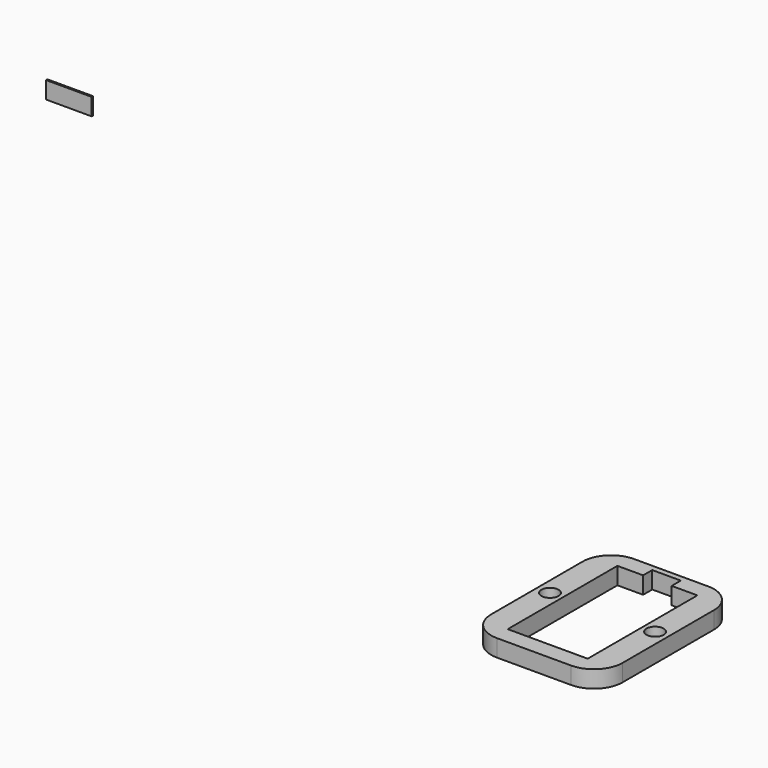
from build123d import *

# Parameters (mm, degrees)
F0_W     = 7.99343
F0_H     = 0.296056
F0_R     = 1.5
F1_DEPTH = 3


with BuildPart() as f1:
    # F0 (on Top) → F1 (new body)
    with BuildSketch(Plane.XY):
        with Locations((-153.799355, 75.641453)):
            Rectangle(F0_W, F0_H)
        with BuildLine():
            ThreePointArc((-7.7, 0), (-9.2, 1.5), (-10.7, 0))
            ThreePointArc((-10.7, 0), (-9.2, -1.5), (-7.7, 0))
        make_face()
        with Locations((9.2, 0)):
            Circle(F0_R)
        with BuildLine():
            ThreePointArc((11.5, 10), (10.035534, 13.535534), (6.5, 15))
            Line((6.5, 15), (-6.5, 15))
            ThreePointArc((-6.5, 15), (-10.035534, 13.535534), (-11.5, 10))
            Line((-11.5, 10), (-11.5, 0))
            Line((-11.5, 0), (-11.5, -10))
            ThreePointArc((-11.5, -10), (-10.035534, -13.535534), (-6.5, -15))
            Line((-6.5, -15), (6.5, -15))
            ThreePointArc((6.5, -15), (10.035534, -13.535534), (11.5, -10))
            Line((11.5, -10), (11.5, 0))
            Line((11.5, 0), (11.5, 10))
        make_face()
        with BuildLine():
            ThreePointArc((-7.7, 0), (-9.2, -1.5), (-10.7, 0))
            ThreePointArc((-10.7, 0), (-9.2, 1.5), (-7.7, 0))
        make_face(mode=Mode.SUBTRACT)
        Polygon((2.5, 12), (7, 12), (7, -12), (-7, -12), (-7, 12), (-2.5, 12), (-2.5, 14), (2.5, 14), align=None, mode=Mode.SUBTRACT)
        with Locations((9.2, 0)):
            Circle(F0_R, mode=Mode.SUBTRACT)
    extrude(amount=F1_DEPTH)


solid = f1.part
